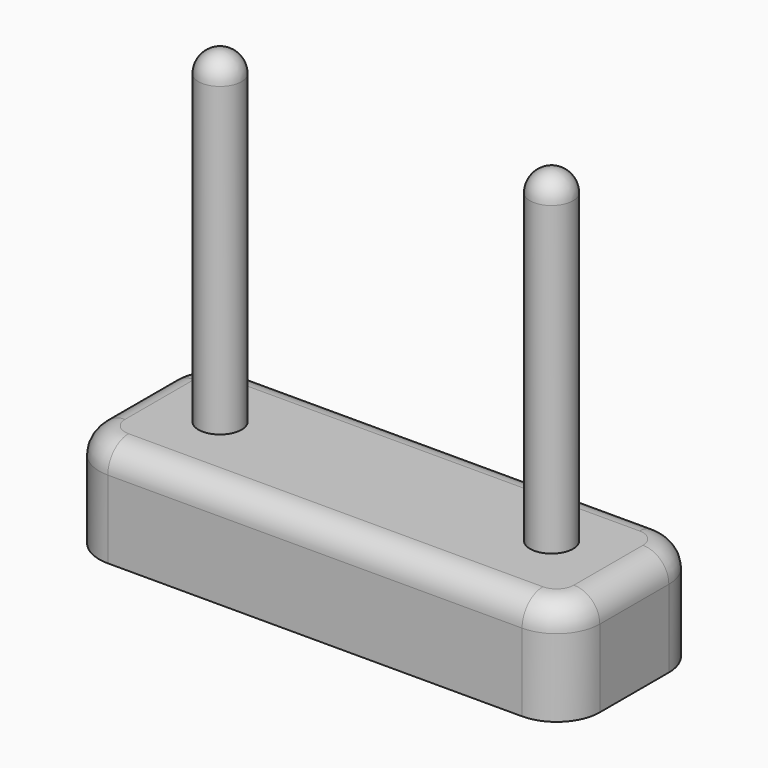
from build123d import *

# Parameters (mm, degrees)
F0_W     = 57.996501
F0_H     = 20
F0_R     = 2.5
F1_DEPTH = 12
F2_DEPTH = 50
F3_R     = 2.5
F4_R     = 5
F5_R     = 3


with BuildPart() as f1:
    # F0 (on Top) → F1 (new body)
    with BuildSketch(Plane.XY):
        with Locations((2.033807, 27.819562)):
            Rectangle(F0_W, F0_H)
        with Locations((-16.964443, 27.819562)):
            Circle(F0_R, mode=Mode.SUBTRACT)
        with Locations((21.032058, 28.33525)):
            Circle(F0_R, mode=Mode.SUBTRACT)
        with Locations((-16.964443, 27.819562)):
            Circle(F0_R)
        with Locations((21.032058, 28.33525)):
            Circle(F0_R)
    extrude(amount=F1_DEPTH)

    # F0 (on Top) → F2 (join)
    with BuildSketch(Plane.XY):
        with Locations((-16.964443, 27.819562)):
            Circle(F0_R)
        with Locations((21.032058, 28.33525)):
            Circle(F0_R)
    extrude(amount=F2_DEPTH)

    # F3
    f3_edges = [f1.edges().sort_by_distance(p)[0] for p in [
        (-19.464443, 27.819562, 50),
        (18.532058, 28.33525, 50),
    ]]
    fillet(f3_edges, radius=F3_R)

    # F4
    f4_edges = [f1.edges().sort_by_distance(p)[0] for p in [
        (-26.964443, 37.819562, 6),
        (-26.964443, 17.819562, 6),
        (31.032058, 17.819562, 6),
        (31.032058, 37.819562, 6),
    ]]
    fillet(f4_edges, radius=F4_R)

    # F5
    f5_edges = [f1.edges().sort_by_distance(p)[0] for p in [
        (2.033808, 37.819562, 12),
    ]]
    fillet(f5_edges, radius=F5_R)


solid = f1.part
